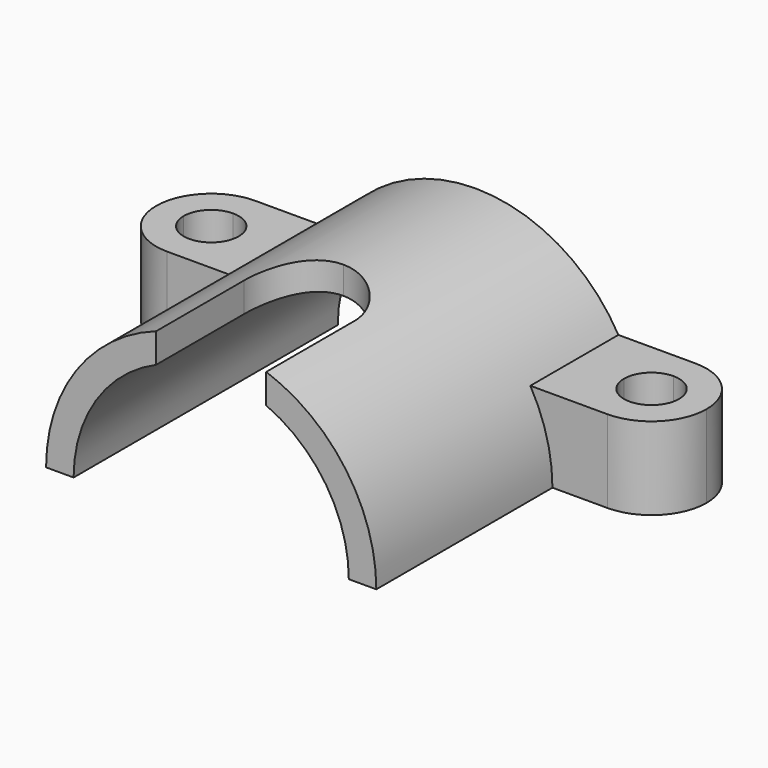
from build123d import *

# Parameters (mm, degrees)
F1_DEPTH = 60
F2_W     = 20
F2_H     = 15
F3_DEPTH = 50
F5_DEPTH = 60.001
F6_W     = 10
F6_H     = 20
F7_DEPTH = 30.001
F8_DEPTH = 15.0010001


with BuildPart() as f1:
    # F0 (on Front) → F1 (new body)
    with BuildSketch(Plane.XZ):
        with BuildLine():
            ThreePointArc((0, 25), (-17.6776695297, 17.6776695297), (-25, 0))
            Line((-25, 0), (0, 0))
            Line((0, 0), (0, 25))
        make_face()
        with BuildLine():
            ThreePointArc((0, 30), (-21.2132034356, 21.2132034356), (-30, 0))
            Line((-30, 0), (-25, 0))
            ThreePointArc((-25, 0), (-17.6776695297, 17.6776695297), (0, 25))
            Line((0, 25), (0, 30))
        make_face()
    extrude(amount=-F1_DEPTH)

    # F2 (on face) → F3 (join)
    with BuildSketch(Plane.YZ):
        with Locations((50, 7.5)):
            Rectangle(F2_W, F2_H)
    extrude(amount=-F3_DEPTH)

    # F0 (on Front) → F5 (cut, through all)
    with BuildSketch(Plane.XZ):
        with BuildLine():
            ThreePointArc((0, 25), (-17.6776695297, 17.6776695297), (-25, 0))
            Line((-25, 0), (0, 0))
            Line((0, 0), (0, 25))
        make_face()
    extrude(amount=-F5_DEPTH, mode=Mode.SUBTRACT)

    # F6 (on Top) → F7 (cut, through all)
    with BuildSketch(Plane.XY):
        with Locations((-5, 10)):
            Rectangle(F6_W, F6_H)
        with BuildLine():
            Line((-10, 20), (0, 20))
            Line((0, 20), (0, 30))
            ThreePointArc((0, 30), (-7.0710678119, 27.0710678119), (-10, 20))
        make_face()
    extrude(amount=F7_DEPTH, mode=Mode.SUBTRACT)

    # F4 (on face) → F8 (cut, through all)
    with BuildSketch(Plane.XY.offset(15)):
        with BuildLine():
            ThreePointArc((-40, 40), (-47.0710678119, 42.9289321881), (-50, 50))
            Line((-50, 50), (-50, 40))
            Line((-50, 40), (-40, 40))
        make_face()
        with BuildLine():
            Line((-40, 60), (-50, 60))
            Line((-50, 60), (-50, 50))
            ThreePointArc((-50, 50), (-47.0710678119, 57.0710678119), (-40, 60))
        make_face()
        with BuildLine():
            Line((-40, 50), (-45, 50))
            ThreePointArc((-45, 50), (-43.5355339059, 46.4644660941), (-40, 45))
            Line((-40, 45), (-40, 50))
        make_face()
        with BuildLine():
            Line((-35, 50), (-40, 50))
            Line((-40, 50), (-40, 45))
            ThreePointArc((-40, 45), (-36.4644660941, 46.4644660941), (-35, 50))
        make_face()
        with BuildLine():
            ThreePointArc((-35, 50), (-36.4644660941, 53.5355339059), (-40, 55))
            Line((-40, 55), (-40, 50))
            Line((-40, 50), (-35, 50))
        make_face()
        with BuildLine():
            ThreePointArc((-40, 55), (-43.5355339059, 53.5355339059), (-45, 50))
            Line((-45, 50), (-40, 50))
            Line((-40, 50), (-40, 55))
        make_face()
    extrude(amount=-F8_DEPTH, mode=Mode.SUBTRACT)

    # F9: F1 across plane


with BuildPart() as f1_1:
    add(f1.part)
    add(f1.part.mirror(Plane.YZ))


solid = f1_1.part
